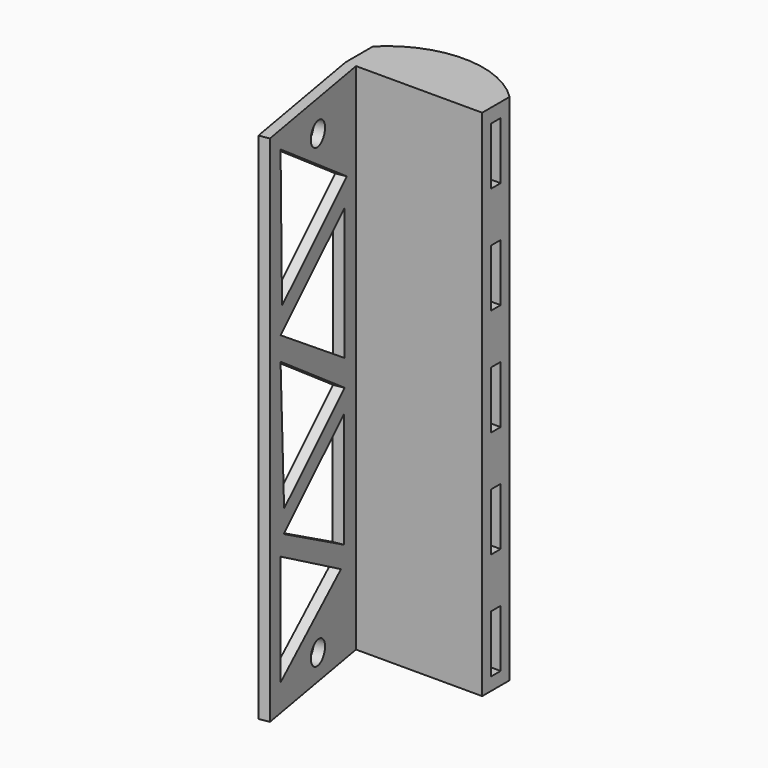
from build123d import *

# Parameters (mm, degrees)
F1_DEPTH = 100
F2_W     = 2.322293818
F2_H     = 11.1691281199
F3_DEPTH = 26.5967446956
F4_R     = 2.25
F5_DEPTH = 5


with BuildPart() as f1:
    # F0 (on Top) → F1 (new body)
    with BuildSketch(Plane.XY):
        Polygon((13.0718629807, 13.9992671447), (-13.5238817149, 13.9992671447), (-13.5238817149, 7.3329959996), (-11.4936745146, 7.3329959996), (13.0718629807, 7.3329959996), align=None)
        with BuildLine():
            ThreePointArc((13.0718629807, 13.9992671447), (-0.2260093671, 19.4983686983), (-13.5238817149, 13.9992671447))
            Line((-13.5238817149, 13.9992671447), (13.0718629807, 13.9992671447))
        make_face()
        Polygon((13.0718629807, 13.9992671447), (-13.5238817149, 13.9992671447), (-13.5238817149, 7.3329959996), (-11.4936745146, 7.3329959996), (13.0718629807, 7.3329959996), align=None)
        Polygon((-11.4936745146, 7.3329959996), (-13.5238817149, 7.3329959996), (-8.7926732376, -19.7865962982), (-6.8224309887, -19.4428733275), align=None)
    extrude(amount=F1_DEPTH)

    # F2 (on face) → F3 (cut, through all)
    with BuildSketch(Plane(origin=(-13.5238817149, 0, 0), x_dir=(0, -1, 0), z_dir=(-1, 0, 0))):
        with Locations((-10.6661058962, 91.6783995926)):
            Rectangle(F2_W, F2_H)
        with Locations((-10.6661058962, 70.7783995926)):
            Rectangle(F2_W, F2_H)
        with Locations((-10.6661058962, 49.8783995926)):
            Rectangle(F2_W, F2_H)
        with Locations((-10.6661058962, 28.9783995926)):
            Rectangle(F2_W, F2_H)
        with Locations((-10.6661058962, 8.0783995926)):
            Rectangle(F2_W, F2_H)
    extrude(amount=-F3_DEPTH, mode=Mode.SUBTRACT)

    # F4 (on face) → F5 (cut)
    with BuildSketch(Plane(origin=(-11.8829269994, -2.073062321, 0), x_dir=(0.1718614854, -0.9851211245, 0), z_dir=(-0.9851211245, -0.1718614854, 0))):
        with Locations((2.8274371289, 93.9120426774)):
            Circle(F4_R)
        with Locations((2.8274371289, 4.9835015088)):
            Circle(F4_R)
        Polygon((14.1747677699, 69.6047618985), (14.6328052506, 96.599586308), (-6.3302433118, 82.4077576399), align=None)
        Polygon((-5.5054374928, 51.6755245626), (14.6328052506, 64.7412315011), (-5.5054374928, 77.3152230515), align=None)
        Polygon((13.5203069012, 34.5346203232), (14.6328052506, 60.2121762931), (-5.6320335211, 46.4930304839), align=None)
        Polygon((-5.4043177298, 19.6944773197), (13.6406598613, 30.2205141634), (-5.4043177298, 42.1118887167), align=None)
        Polygon((14.6328052506, 5.2338945679), (14.6328052506, 26.8068239093), (-4.4452575967, 15.9530360252), align=None)
    extrude(amount=-F5_DEPTH, mode=Mode.SUBTRACT)


solid = f1.part
